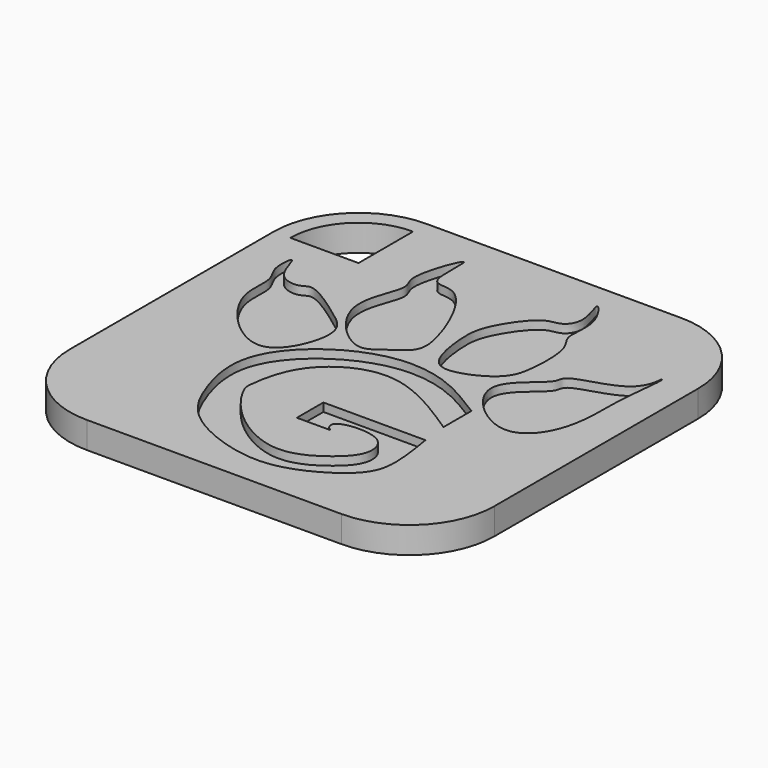
from build123d import *

# Parameters (mm, degrees)
F1_DEPTH = 1.5875
F3_DEPTH = 0.5


with BuildPart() as f1:
    # F0 (on Top) → F1 (new body)
    with BuildSketch(Plane.XY):
        with BuildLine():
            Line((20.32, 0), (5.08, 0))
            ThreePointArc((5.08, 0), (1.4878975516, -1.4878975516), (0, -5.08))
            Line((0, -5.08), (0, -20.32))
            ThreePointArc((0, -20.32), (1.4878975516, -23.9121024484), (5.08, -25.4))
            Line((5.08, -25.4), (20.32, -25.4))
            ThreePointArc((20.32, -25.4), (23.9121024484, -23.9121024484), (25.4, -20.32))
            Line((25.4, -20.32), (25.4, -5.08))
            ThreePointArc((25.4, -5.08), (23.9121024484, -1.4878975516), (20.32, 0))
        make_face()
        with BuildLine():
            ThreePointArc((1, -5.08), (2.1950043328, -2.1950043328), (5.08, -1))
            Line((5.08, -1), (5.08, -5.08))
            Line((5.08, -5.08), (1, -5.08))
        make_face(mode=Mode.SUBTRACT)
    extrude(amount=F1_DEPTH)

    # F2 (on face) → F3 (cut)
    with BuildSketch(Plane.XY.offset(1.5875)):
        with BuildLine():
            add(Edge.make_bspline(
                [(2.4490728974, -6.7740357481), (2.5640653587, -6.7789870625), (2.8497096175, -8.5547173238), (4.3924326363, -8.7263982766), (4.9021251928, -8.0601975701), (7.3014356494, -9.792143864), (9.0829831486, -11.0600457125), (7.5759023816, -15.034061825), (4.8149139746, -14.0112611661), (2.5406535999, -11.0822233393), (3.0843774823, -8.871388017), (2.206791942, -8.0589467747), (2.3540101093, -6.7699425602), (2.4490728974, -6.7740357481)],
                knots=[0, 0, 0, 0, 0.0834733652, 0.1596786251, 0.211280159, 0.3202012809, 0.4174913991, 0.5365054361, 0.6371797839, 0.7640988496, 0.8581164871, 0.930993643, 1, 1, 1, 1], degree=3))
        make_face()
        with BuildLine():
            add(Edge.make_bspline(
                [(8.8586267084, -1.9229061436), (9.0133324625, -1.9962039821), (8.5781362964, -4.8596724504), (10.8026636171, -3.8581837805), (12.9158763945, -8.8258314612), (12.7637259817, -10.4237944469), (11.4442186041, -11.1041330202), (10.2657125828, -12.3014655453), (6.648794494, -8.8044939483), (8.7241439056, -5.5608560073), (7.5913084371, -4.8263028002), (8.6868674054, -1.8415285263), (8.8586267084, -1.9229061436)],
                knots=[0, 0, 0, 0, 0.1003441296, 0.1790205059, 0.3273435911, 0.4103268091, 0.4876916806, 0.5640818014, 0.6977904536, 0.8159470595, 0.8885947206, 1, 1, 1, 1], degree=3))
        make_face()
        with BuildLine():
            add(Edge.make_bspline(
                [(15.3460819274, -10.8880214393), (14.8512295385, -10.9588450007), (13.9299008367, -10.7053988479), (13.5121962443, -7.9096377023), (13.6622187323, -6.3567616148), (15.2793581259, -3.9580176334), (16.4080636022, -4.1214413187), (17.1082303726, -3.0395244465), (16.0838457727, -0.8259241437), (17.7470321041, -2.9144829358), (17.1538584695, -4.8561918923), (18.144489033, -5.6645027478), (18.1479302323, -8.3133493469), (17.7348320222, -9.9784729415), (16.0352159561, -10.7893921768), (15.3460819274, -10.8880214393)],
                knots=[0, 0, 0, 0, 0.0650108823, 0.1586626397, 0.2371515003, 0.3320276929, 0.3893948162, 0.4517320216, 0.5222311979, 0.5944300906, 0.6775726924, 0.7390005872, 0.832144801, 0.9094655048, 1, 1, 1, 1], degree=3))
        make_face()
        with BuildLine():
            add(Edge.make_bspline(
                [(17.8314298391, -10.9799029306), (17.7249083363, -12.1690600402), (20.7603611318, -14.9300459927), (23.0031969629, -12.8017594149), (23.326202251, -10.0583740205), (23.2131940657, -8.2165111867), (23.6227448408, -5.3797509412), (23.4570323286, -5.4222094382), (23.4865868134, -5.6767488723), (23.1263749191, -7.3603977194), (19.5937119065, -7.8543053012), (19.9693727052, -8.9017571736), (17.9204492601, -9.9861310201), (17.8314298391, -10.9799029306)],
                knots=[0, 0, 0, 0, 0.1413354042, 0.248074402, 0.3603235106, 0.465212104, 0.5746780417, 0.587199286, 0.6171206568, 0.7016070875, 0.8235075643, 0.8818867974, 1, 1, 1, 1], degree=3))
        make_face()
        with BuildLine():
            Line((18.7120754272, -17.1168874949), (12.6079469919, -17.1168874949))
            Line((12.6079469919, -17.1168874949), (12.6079469919, -19.0993472934))
            Line((12.6079469919, -19.0993472934), (14.6015575156, -19.0993472934))
            add(Edge.make_bspline(
                [(14.6015575156, -19.0993472934), (14.5012191225, -19.0259025868), (14.2920133835, -18.872770235), (14.2603401825, -18.1562094613), (17.0597749327, -17.9815286038), (17.6357141256, -19.7571588989), (16.4912546985, -21.1458697144), (13.8377659619, -22.7586106554), (10.2283182101, -20.6724799507), (8.7895208963, -18.3881791376), (8.805998074, -17.7382663647), (9.2389835084, -14.7176909304), (13.3626786947, -12.1480226777), (16.7121271854, -14.3541167752), (18.5453109443, -15.5615322292)],
                knots=[0, 0, 0, 0, 0.0348110201, 0.0725810426, 0.1602150508, 0.2287528387, 0.3027050172, 0.3988050387, 0.513367883, 0.6043650936, 0.6490797363, 0.744086409, 0.8599361536, 1, 1, 1, 1], degree=3))
            Line((18.5453109443, -15.5615322292), (18.5453109443, -13.4691204876))
            add(Edge.make_bspline(
                [(18.5453109443, -13.4691204876), (17.5304020754, -12.8250813774), (15.5159101231, -11.5467285674), (11.9049899424, -11.2995207648), (8.361626086, -13.2148755489), (6.4746717155, -16.2031496216), (7.3785161598, -19.627986708), (8.6935760858, -22.0615171511), (12.1785987984, -23.6133223697), (15.3201740801, -23.7321939364), (18.4842473463, -21.8317631511), (19.2020156683, -20.125104018), (18.8903558491, -18.2115232606), (18.7120754272, -17.1168874949)],
                knots=[0, 0, 0, 0, 0.0963487652, 0.1912426013, 0.2920399316, 0.3845777133, 0.4775083267, 0.56172248, 0.65853379, 0.7498910552, 0.8444843458, 0.9110395542, 1, 1, 1, 1], degree=3))
        make_face()
    extrude(amount=-F3_DEPTH, mode=Mode.SUBTRACT)


solid = f1.part
